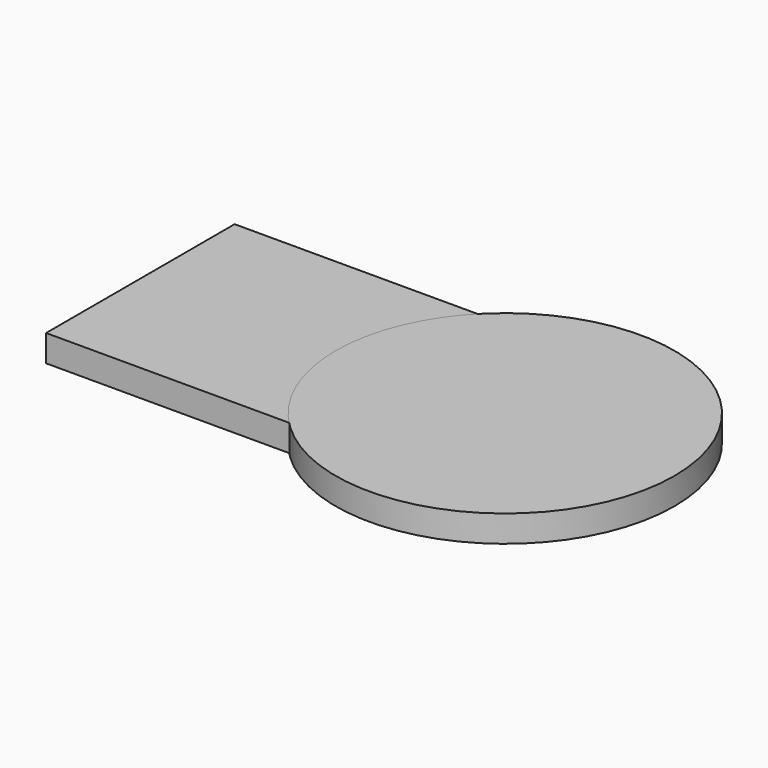
from build123d import *

# Parameters (mm, degrees)
F0_W     = 136.5081220865
F0_H     = 88.2100593299
F2_DEPTH = 10
F1_R     = 63.4238


with BuildPart() as f2:
    # F0 (on Top) → F2 (new body)
    with BuildSketch(Plane.XY):
        with Locations((-68.2540610433, -26.7817908898)):
            Rectangle(F0_W, F0_H)
    extrude(amount=F2_DEPTH)


with BuildPart() as f2b:
    # F1 (on Top) → F2, piece 2 (new body)
    with BuildSketch(Plane.XY):
        with Locations((0, -26.7817908898)):
            Circle(F1_R)
    extrude(amount=F2_DEPTH)


solid = Compound([f2.part, f2b.part])
